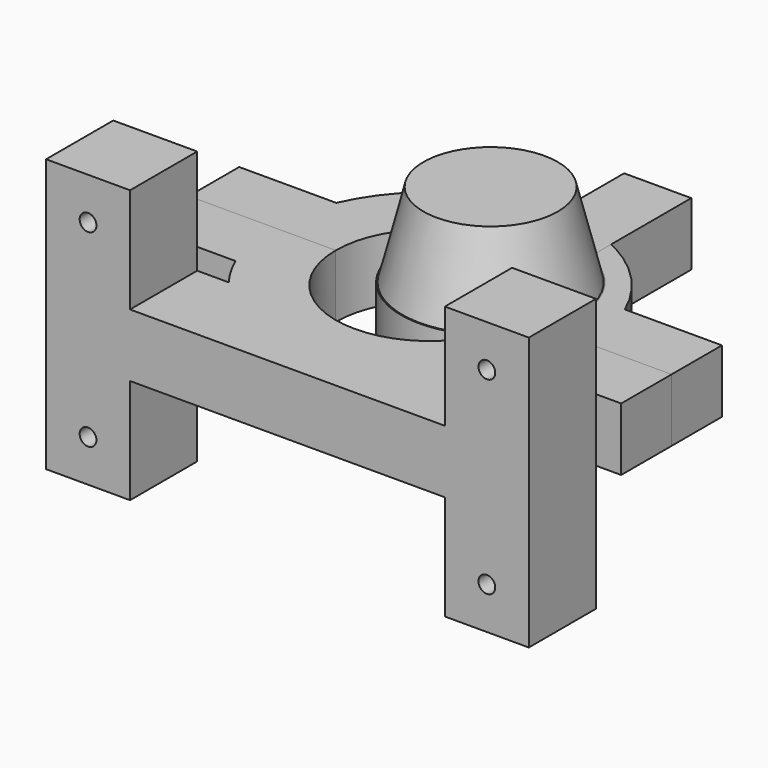
from build123d import *

# Parameters (mm, degrees)
SKETCH004_R           = 2
EXTRUDE004_DEPTH      = 30
EXTRUDE_DEPTH         = 15
EXTRUDE005_DEPTH      = 30
EXTRUDE001_DEPTH      = 15
SKETCH003_R           = 2
EXTRUDE003_DEPTH      = 30
SKETCH002_W           = 20
SKETCH002_H           = 20
EXTRUDE002_DEPTH      = 25
EXTRUDE002_DEPTH_BACK = 40
SKETCH008_R           = 2
EXTRUDE007_DEPTH      = 20
SKETCH005_W           = 16
SKETCH005_H           = 16
EXTRUDE006_DEPTH      = 15
SKETCH006_R           = 16
SKETCH007_R           = 21.3


with BuildPart() as connectscrewstop:
    # Sketch004 (on Face6 of Extrude) → Extrude004 (new body)
    with BuildSketch(Plane(origin=(0, 15, 0), x_dir=(-1, 0, 0), z_dir=(0, 1, 0))):
        with Locations((-45.934659, 7.5)):
            Circle(SKETCH004_R)
        with Locations((45.934659, 7.5)):
            Circle(SKETCH004_R)
    extrude(amount=-EXTRUDE004_DEPTH)


with BuildPart() as top:
    # Sketch → Extrude (new body)
    with BuildSketch(Plane.XY):
        with BuildLine():
            ThreePointArc((22.5, 0), (0, 22.5), (-22.5, 0))
            Line((-22.5, 0), (-57.5, 0))
            Line((-57.5, 0), (-57.5, 15))
            Line((-57.5, 15), (-34.369318, 15))
            ThreePointArc((34.369318, 15), (0, 37.5), (-34.369318, 15))
            Line((57.5, 15), (34.369318, 15))
            Line((57.5, 0), (57.5, 15))
            Line((22.5, 0), (57.5, 0))
        make_face()
    extrude(amount=EXTRUDE_DEPTH)

    # Cut001: cut ConnectScrewsTop
    add(connectscrewstop.part, mode=Mode.SUBTRACT)


with BuildPart() as connectscrewsbottom:
    # Sketch004 (on Face6 of Extrude) → Extrude005 (new body)
    with BuildSketch(Plane(origin=(0, 15, 0), x_dir=(-1, 0, 0), z_dir=(0, 1, 0))):
        with Locations((-45.934659, 7.5)):
            Circle(SKETCH004_R)
        with Locations((45.934659, 7.5)):
            Circle(SKETCH004_R)
    extrude(amount=-EXTRUDE005_DEPTH)


with BuildPart() as bottom:
    # Sketch001 (on Sketch) → Extrude001 (new body)
    with BuildSketch(Plane.XY):
        with BuildLine():
            ThreePointArc((-22.5, 0), (0, -22.5), (22.5, 0))
            Line((22.5, 0), (57.5, 0))
            Line((57.5, 0), (57.5, -15))
            Line((57.5, -15), (34.369318, -15))
            ThreePointArc((30, -22.5), (32.402388, -18.876844), (34.369318, -15))
            Line((30, -22.5), (57.5, -22.5))
            Line((57.5, -22.5), (57.5, -42.5))
            Line((57.5, -42.5), (-57.5, -42.5))
            Line((-57.5, -42.5), (-57.5, -22.5))
            Line((-57.5, -22.5), (-30, -22.5))
            ThreePointArc((-34.369318, -15), (-32.402388, -18.876844), (-30, -22.5))
            Line((-57.5, -15), (-34.369318, -15))
            Line((-57.5, 0), (-57.5, -15))
            Line((-22.5, 0), (-57.5, 0))
        make_face()
    extrude(amount=EXTRUDE001_DEPTH)

    # Cut002: cut ConnectScrewsBottom
    add(connectscrewsbottom.part, mode=Mode.SUBTRACT)


with BuildPart() as basescrews:
    # Sketch003 (on Face4 of Extrude002) → Extrude003 (new body)
    with BuildSketch(Plane.XZ.offset(42.5)):
        with Locations((-47.5, 30)):
            Circle(SKETCH003_R)
        with Locations((-47.5, -15)):
            Circle(SKETCH003_R)
        with Locations((47.5, 30)):
            Circle(SKETCH003_R)
        with Locations((47.5, -15)):
            Circle(SKETCH003_R)
    extrude(amount=-EXTRUDE003_DEPTH)


with BuildPart() as obj1:
    # Sketch002 (on Face16 of Extrude001) → Extrude002 (new body, two sides)
    with BuildSketch(Plane.XY.offset(15)) as extrude002_sk:
        with Locations((47.5, -32.5)):
            Rectangle(SKETCH002_W, SKETCH002_H)
        with Locations((-47.5, -32.5)):
            Rectangle(SKETCH002_W, SKETCH002_H)
    extrude(amount=EXTRUDE002_DEPTH)
    extrude(extrude002_sk.sketch, amount=-EXTRUDE002_DEPTH_BACK)

    # Cut: cut BaseScrews
    add(basescrews.part, mode=Mode.SUBTRACT)

    # Fusion: union Bottom
    add(bottom.part)


with BuildPart() as screwholes:
    # Sketch008 (on Face2 of Loft) → Extrude007 (new body)
    with BuildSketch(Plane.XY.offset(35)):
        with Locations((16.485281, 16.485281)):
            Circle(SKETCH008_R)
        with Locations((-0.485281, 16.485281)):
            Circle(SKETCH008_R)
        with Locations((-0.485281, -0.485281)):
            Circle(SKETCH008_R)
        with Locations((16.485281, -0.485281)):
            Circle(SKETCH008_R)
    extrude(amount=-EXTRUDE007_DEPTH)


with BuildPart() as socket:
    # Sketch005 → Extrude006 (new body)
    with BuildSketch(Plane.XY):
        with BuildLine():
            ThreePointArc((0, 27.755358), (8, -13.313708), (16, 27.755358))
            Line((16, 27.755358), (16, 57.755358))
            Line((16, 57.755358), (0, 57.755358))
            Line((0, 57.755358), (0, 27.755358))
        make_face()
        with Locations((8, 8)):
            Rectangle(SKETCH005_W, SKETCH005_H, mode=Mode.SUBTRACT)
    extrude(amount=EXTRUDE006_DEPTH)


with BuildPart() as fusion001:
    # Sketch006 (on Face10 of Extrude006) → Loft section 0
    with BuildSketch(Plane.XY.offset(35)):
        with Locations((8, 8)):
            Circle(SKETCH006_R)
    # Sketch007 (on Face10 of Extrude006) → Loft section 1
    with BuildSketch(Plane.XY.offset(14)):
        with Locations((8, 8)):
            Circle(SKETCH007_R)
    loft()

    # Fusion001: union Socket
    add(socket.part)


solid = Compound([top.part, obj1.part, screwholes.part, fusion001.part])
